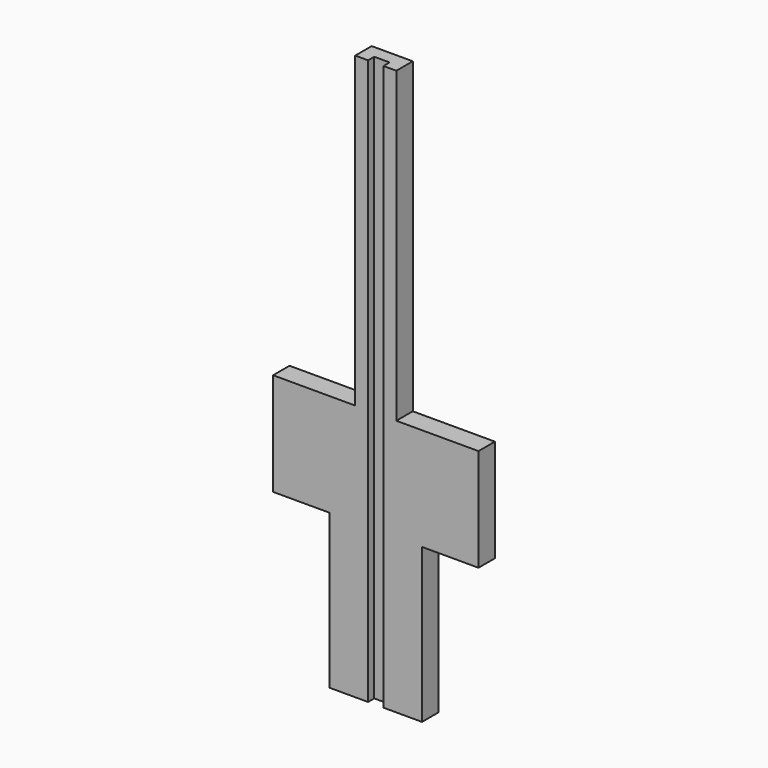
from build123d import *

# Parameters (mm, degrees)
F1_DEPTH = 2
F2_W     = 1.5
F2_H     = 81.009796
F3_DEPTH = 0.75


with BuildPart() as f1:
    # F0 (on Front) → F1 (new body)
    with BuildSketch(Plane.XZ):
        Polygon((10, -5), (10, 5), (2, 5), (2, 35), (-2, 35), (-2, 5), (-10, 5), (-10, -5), (-4.5, -5), (-4.5, -20), (4.5, -20), (4.5, -5), align=None)
    extrude(amount=F1_DEPTH)

    # F2 (on face) → F3 (cut)
    with BuildSketch(Plane.XZ.offset(2)):
        Rectangle(F2_W, F2_H)
    extrude(amount=-F3_DEPTH, mode=Mode.SUBTRACT)


solid = f1.part
